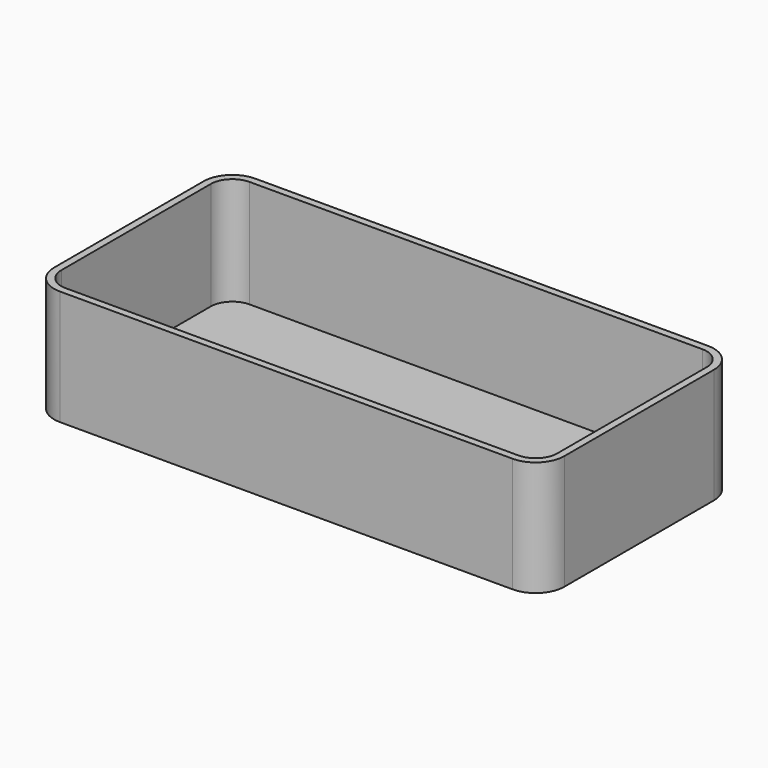
from build123d import *

# Parameters (mm, degrees)
F2_DEPTH = 15
F3_T     = 1


with BuildPart() as f2:
    # F1 (on Top) → F2 (new body)
    with BuildSketch(Plane.XY):
        with BuildLine():
            Line((35.5, -13), (35.5, -9))
            Line((35.5, -9), (35.5, 9))
            Line((35.5, 9), (35.5, 13))
            ThreePointArc((35.5, 13), (34.6213203436, 15.1213203436), (32.5, 16))
            Line((32.5, 16), (30.5, 16))
            Line((30.5, 16), (-30.5, 16))
            ThreePointArc((-30.5, 16), (-32.6213203436, 15.1213203436), (-33.5, 13))
            Line((-33.5, 13), (-33.5, -13))
            ThreePointArc((-33.5, -13), (-32.6213203436, -15.1213203436), (-30.5, -16))
            Line((-30.5, -16), (30.5, -16))
            Line((30.5, -16), (32.5, -16))
            ThreePointArc((32.5, -16), (34.6213203436, -15.1213203436), (35.5, -13))
        make_face()
    extrude(amount=F2_DEPTH)

    # F3
    f3_openings = [f2.faces().sort_by_distance(p)[0] for p in [
        (1, 0, 15),
    ]]
    offset(amount=F3_T, openings=f3_openings, kind=Kind.INTERSECTION)


solid = f2.part
